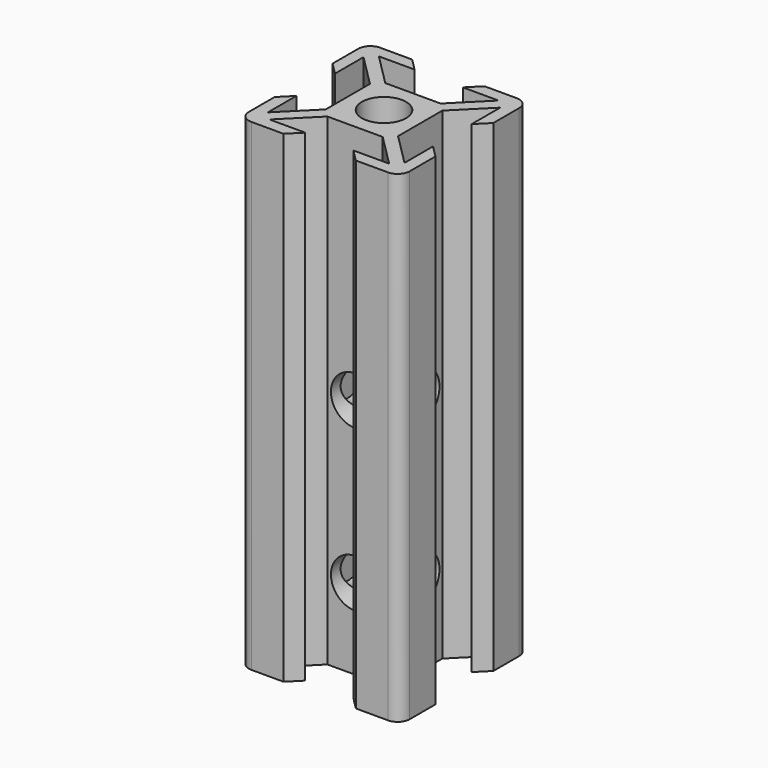
from build123d import *

# Parameters (mm, degrees)
SKETCH_R        = 2.75
PAD_DEPTH       = 60
SKETCH001_R     = 3
POCKET_DEPTH    = 20.001
SKETCH002_R     = 3
POCKET001_DEPTH = 20.001


with BuildPart() as part:
    # Sketch → Pad (new body)
    with BuildSketch(Plane.XY):
        with BuildLine():
            ThreePointArc((-8.5, 10), (-9.56066, 9.56066), (-10, 8.5))
            Line((-10, 8.5), (-10, 4.5))
            Line((-10, 4.5), (-8.5, 3))
            Line((-8.5, 3), (-8.5, 7.43934))
            Line((-8.5, 7.43934), (-4.5, 3.43934))
            Line((-4.5, 3.43934), (-4.5, -3.43934))
            Line((-4.5, -3.43934), (-8.5, -7.43934))
            Line((-8.5, -7.43934), (-8.5, -3))
            Line((-8.5, -3), (-10, -4.5))
            Line((-10, -4.5), (-10, -8.5))
            ThreePointArc((-10, -8.5), (-9.56066, -9.56066), (-8.5, -10))
            Line((-8.5, -10), (-4.5, -10))
            Line((-4.5, -10), (-3, -8.5))
            Line((-3, -8.5), (-7.43934, -8.5))
            Line((-7.43934, -8.5), (-3.43934, -4.5))
            Line((-3.43934, -4.5), (3.43934, -4.5))
            Line((3.43934, -4.5), (7.43934, -8.5))
            Line((7.43934, -8.5), (3, -8.5))
            Line((3, -8.5), (4.5, -10))
            Line((4.5, -10), (8.5, -10))
            ThreePointArc((8.5, -10), (9.56066, -9.56066), (10, -8.5))
            Line((10, -8.5), (10, -4.5))
            Line((10, -4.5), (8.5, -3))
            Line((8.5, -3), (8.5, -7.43934))
            Line((8.5, -7.43934), (4.5, -3.43934))
            Line((4.5, -3.43934), (4.5, 3.43934))
            Line((4.5, 3.43934), (8.5, 7.43934))
            Line((8.5, 7.43934), (8.5, 3))
            Line((8.5, 3), (10, 4.5))
            Line((10, 4.5), (10, 8.5))
            ThreePointArc((10, 8.5), (9.56066, 9.56066), (8.5, 10))
            Line((8.5, 10), (4.5, 10))
            Line((4.5, 10), (3, 8.5))
            Line((3, 8.5), (7.43934, 8.5))
            Line((7.43934, 8.5), (3.43934, 4.5))
            Line((-3.43934, 4.5), (3.43934, 4.5))
            Line((-7.43934, 8.5), (-3.43934, 4.5))
            Line((-3, 8.5), (-7.43934, 8.5))
            Line((-4.5, 10), (-3, 8.5))
            Line((-8.5, 10), (-4.5, 10))
        make_face()
        Circle(SKETCH_R, mode=Mode.SUBTRACT)
    extrude(amount=PAD_DEPTH)

    # Sketch001 (on DatumPlane) → Pocket (cut, through all)
    with BuildSketch(Plane.YZ.offset(10)):
        with Locations((0, 10)):
            Circle(SKETCH001_R)
        with Locations((0, 30)):
            Circle(SKETCH001_R)
    extrude(amount=-POCKET_DEPTH, mode=Mode.SUBTRACT)

    # Sketch002 (on DatumPlane) → Pocket001 (cut, through all)
    with BuildSketch(Plane.XZ.offset(10)):
        with Locations((0, 10)):
            Circle(SKETCH002_R)
        with Locations((0, 30)):
            Circle(SKETCH002_R)
    extrude(amount=-POCKET001_DEPTH, mode=Mode.SUBTRACT)


solid = part.part
